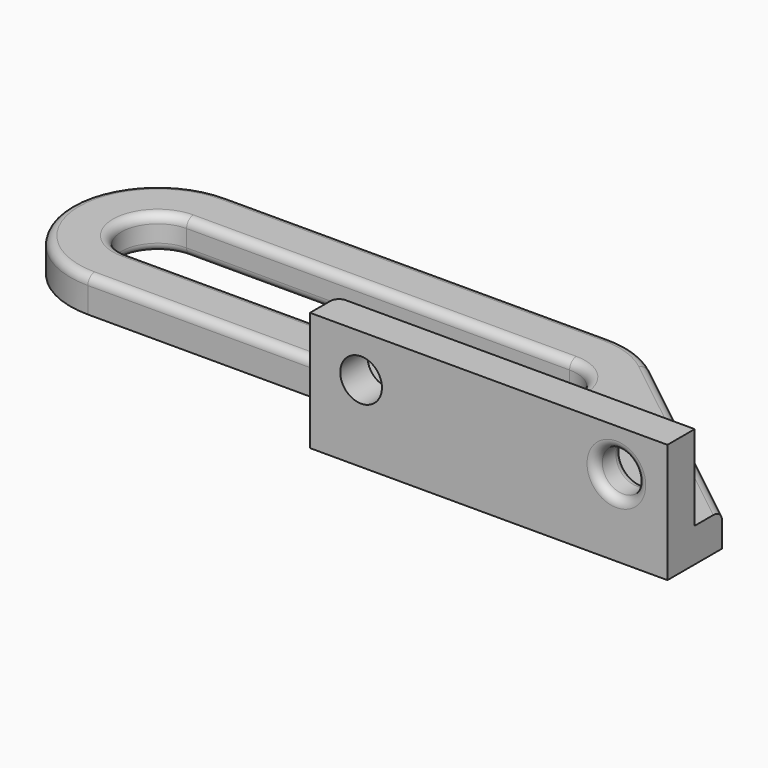
from build123d import *

# Parameters (mm, degrees)
PAD011_DEPTH = 4
SKETCH013_W  = 42
SKETCH013_H  = 10
SKETCH013_R  = 2.45
PAD012_DEPTH = 4
FILLET005_R  = 1


with BuildPart() as part:
    # Sketch012 → Pad011 (new body)
    with BuildSketch(Plane.XY):
        with BuildLine():
            ThreePointArc((0, 10.25), (-10.25, 0), (0, -10.25))
            Line((0, -10.25), (32.5, -10.25))
            Line((32.5, -18.25), (32.5, -10.25))
            Line((32.5, -18.25), (74.5, -18.25))
            Line((74.5, -10.25), (74.5, -18.25))
            Line((74.5, -10.25), (51.355591, 8.041701))
            ThreePointArc((51.355591, 8.041701), (48.364154, 9.682199), (45, 10.25))
            Line((45, 10.25), (0, 10.25))
        make_face()
        with BuildLine():
            ThreePointArc((0, 4.25), (-4.25, 0), (0, -4.25))
            Line((0, -4.25), (45, -4.25))
            ThreePointArc((45, -4.25), (49.25, 0), (45, 4.25))
            Line((45, 4.25), (0, 4.25))
        make_face(mode=Mode.SUBTRACT)
    extrude(amount=PAD011_DEPTH)

    # Sketch013 → Pad012 (join)
    with BuildSketch(Plane(origin=(32.5, -18.25, 4), x_dir=(1, 0, 0), z_dir=(0, -1, 0))):
        with Locations((21, 5)):
            Rectangle(SKETCH013_W, SKETCH013_H)
        with Locations((6, 5)):
            Circle(SKETCH013_R, mode=Mode.SUBTRACT)
        with Locations((36, 5)):
            Circle(SKETCH013_R, mode=Mode.SUBTRACT)
    extrude(amount=-PAD012_DEPTH)

    # Fillet005
    fillet005_edges = [part.edges().sort_by_distance(p)[0] for p in [
        (0, -4.25, 2),
        (45, -4.25, 2),
        (22.5, -4.25, 0),
        (22.5, -4.25, 4),
        (70.95, -16.25, 9),
        (66.05, -18.25, 9),
        (66.05, -14.25, 9),
        (32.5, -14.25, 9),
        (16.25, -10.25, 4),
    ]]
    fillet(fillet005_edges, radius=FILLET005_R)


solid = part.part
